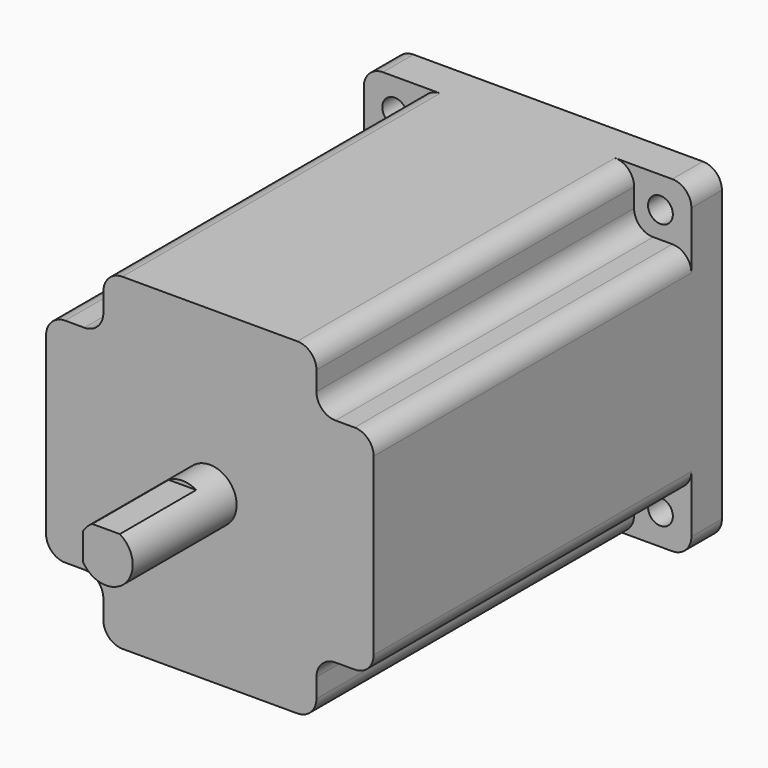
from build123d import *

# Parameters (mm, degrees)
F1_DEPTH  = 114
F2_W      = 15
F2_H      = 15
F3_DEPTH  = 104
F4_R      = 3.25
F5_DEPTH  = 10
F6_R      = 5
F7_R      = 36.5
F8_DEPTH  = 1.6
F9_R      = 7
F10_DEPTH = 35
F12_DEPTH = 25
F13_R     = 7
F14_DEPTH = 34
F16_DEPTH = 25


with BuildPart() as f1:
    # F0 (on Front) → F1 (new body)
    with BuildSketch(Plane.XZ):
        with BuildLine():
            Line((37.9, 42.9), (-37.9, 42.9))
            ThreePointArc((-37.9, 42.9), (-41.4355339059, 41.4355339059), (-42.9, 37.9))
            Line((-42.9, 37.9), (-42.9, -37.9))
            ThreePointArc((-42.9, -37.9), (-41.4355339059, -41.4355339059), (-37.9, -42.9))
            Line((-37.9, -42.9), (37.9, -42.9))
            ThreePointArc((37.9, -42.9), (41.4355339059, -41.4355339059), (42.9, -37.9))
            Line((42.9, -37.9), (42.9, 37.9))
            ThreePointArc((42.9, 37.9), (41.4355339059, 41.4355339059), (37.9, 42.9))
        make_face()
    extrude(amount=F1_DEPTH)

    # F2 (on face) → F3 (cut)
    with BuildSketch(Plane.XZ.offset(114)):
        with Locations((35.4, 35.4)):
            Rectangle(F2_W, F2_H)
        with Locations((-35.4, 35.4)):
            Rectangle(F2_W, F2_H)
        with Locations((-35.4, -35.4)):
            Rectangle(F2_W, F2_H)
        with Locations((35.4, -35.4)):
            Rectangle(F2_W, F2_H)
    extrude(amount=-F3_DEPTH, mode=Mode.SUBTRACT)

    # F4 (on face) → F5 (cut, through all)
    with BuildSketch(Plane(origin=(0, 0, 0), x_dir=(-1, 0, 0), z_dir=(0, 1, 0))):
        with Locations((34.8, 34.8)):
            Circle(F4_R)
        with Locations((-34.8, 34.8)):
            Circle(F4_R)
        with Locations((34.8, -34.8)):
            Circle(F4_R)
        with Locations((-34.8, -34.8)):
            Circle(F4_R)
    extrude(amount=-F5_DEPTH, mode=Mode.SUBTRACT)

    # F6
    f6_edges = [f1.edges().sort_by_distance(p)[0] for p in [
        (-42.9, -62, 27.9),
        (-42.9, -62, -27.9),
        (-27.9, -62, -27.9),
        (-27.9, -62, -42.9),
        (27.9, -62, -42.9),
        (-27.9, -62, 42.9),
        (27.9, -62, -27.9),
        (42.9, -62, -27.9),
        (42.9, -62, 27.9),
        (27.9, -62, 42.9),
        (27.9, -62, 27.9),
        (-27.9, -62, 27.9),
    ]]
    fillet(f6_edges, radius=F6_R)

    # F7 (on face) → F8 (join)
    with BuildSketch(Plane(origin=(0, 0, 0), x_dir=(-1, 0, 0), z_dir=(0, 1, 0))):
        Circle(F7_R)
    extrude(amount=F8_DEPTH)

    # F9 (on face) → F10 (join)
    with BuildSketch(Plane(origin=(0, 0, 0), x_dir=(-1, 0, 0), z_dir=(0, 1, 0))):
        Circle(F9_R)
    extrude(amount=F10_DEPTH)

    # F11 (on face) → F12 (cut)
    with BuildSketch(Plane(origin=(0, 35, 0), x_dir=(-1, 0, 0), z_dir=(0, 1, 0))):
        Polygon((-14.5420123405, 12.7583807334), (-14.5420123405, 6), (6, 6), (6, -12.0489969126), (13.1983235478, -12.4650839716), (13.1983235478, 12.7583807334), align=None)
    extrude(amount=-F12_DEPTH, mode=Mode.SUBTRACT)

    # F13 (on face) → F14 (join)
    with BuildSketch(Plane.XZ.offset(114)):
        Circle(F13_R)
    extrude(amount=F14_DEPTH)

    # F15 (on face) → F16 (cut)
    with BuildSketch(Plane.XZ.offset(148)):
        Polygon((-6, -11.1548621207), (-6, 6), (6, 6), (-11.2425461411, 11.0141066834), align=None)
    extrude(amount=-F16_DEPTH, mode=Mode.SUBTRACT)


solid = f1.part
